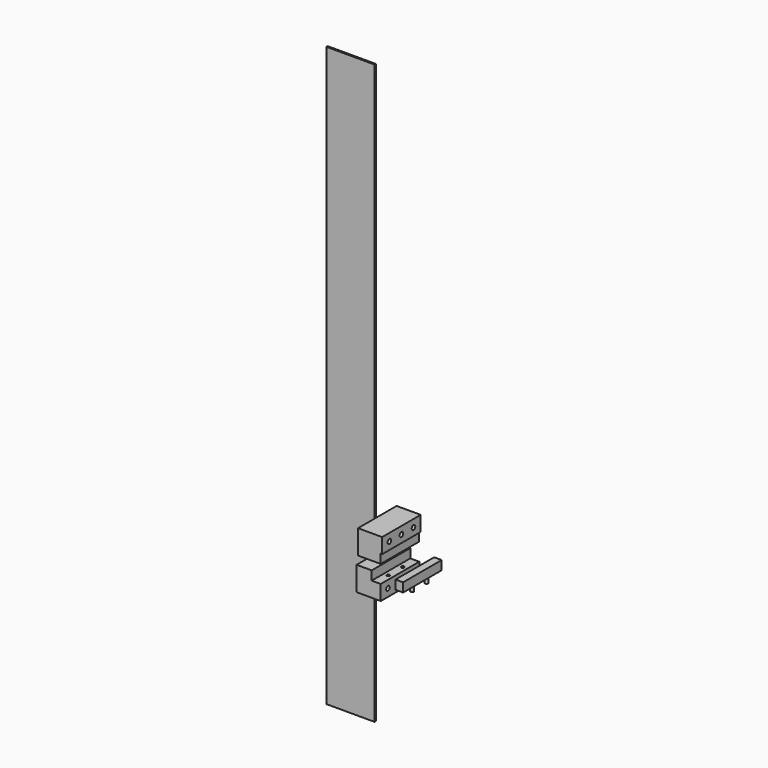
from build123d import *

# Parameters (mm, degrees)
F1_DEPTH  = 101.6
F3_D      = 6.35
F5_D      = 9.525
F6_W      = 15.875
F6_H      = 19.05
F7_DEPTH  = 101.6
F8_R      = 3.175
F9_DEPTH  = 12.7
F11_DEPTH = 101.6
F13_D     = 9.525
F14_W     = 101.6
F14_H     = 1219.2
F15_DEPTH = 3.175


with BuildPart() as f1:
    # F0 (on Front) → F1 (new body)
    with BuildSketch(Plane.XZ):
        Polygon((-40.879235, 46.088122), (-72.629235, 46.088122), (-72.629235, -4.711878), (-21.829235, -4.711878), (-21.829235, 27.038122), (-40.879235, 27.038122), align=None)
    extrude(amount=F1_DEPTH)

    # F3 (through all)
    with Locations(Plane.XY.offset(27.038122)):
        with Locations((-31.354235, -69.85), (-31.354235, -31.75)):
            Hole(F3_D / 2)

    # F5 (through all)
    with Locations(Plane.YZ.offset(-21.829235)):
        with Locations((-82.55, 11.163122), (-50.8, 11.163122), (-19.05, 11.163122)):
            Hole(F5_D / 2)


with BuildPart() as f7:
    # F6 (on Front) → F7 (new body)
    with BuildSketch(Plane.XZ):
        with Locations((17.324004, 35.912496)):
            Rectangle(F6_W, F6_H)
    extrude(amount=F7_DEPTH)

    # F8 (on face) → F9 (join)
    with BuildSketch(Plane(origin=(0, 0, 26.387496), x_dir=(1, 0, 0), z_dir=(0, 0, -1))):
        with Locations((18.911504, 69.85)):
            Circle(F8_R)
        with Locations((18.911504, 31.75)):
            Circle(F8_R)
    extrude(amount=F9_DEPTH)


with BuildPart() as f11:
    # F10 (on Front) → F11 (new body)
    with BuildSketch(Plane.XZ):
        Polygon((-18.84457, 114.994766), (-69.64457, 114.994766), (-69.64457, 64.194766), (-22.01957, 64.194766), (-22.01957, 83.244766), (-18.84457, 83.244766), align=None)
    extrude(amount=F11_DEPTH)

    # F13 (through all)
    with Locations(Plane.YZ.offset(-18.84457)):
        with Locations((-82.55, 99.119766), (-50.8, 99.119766), (-19.05, 99.119766)):
            Hole(F13_D / 2)


with BuildPart() as f15:
    # F14 (on Front) → F15 (new body)
    with BuildSketch(Plane.XZ):
        with Locations((-164.348833, 310.951426)):
            Rectangle(F14_W, F14_H)
    extrude(amount=F15_DEPTH)


solid = Compound([f1.part, f7.part, f11.part, f15.part])
